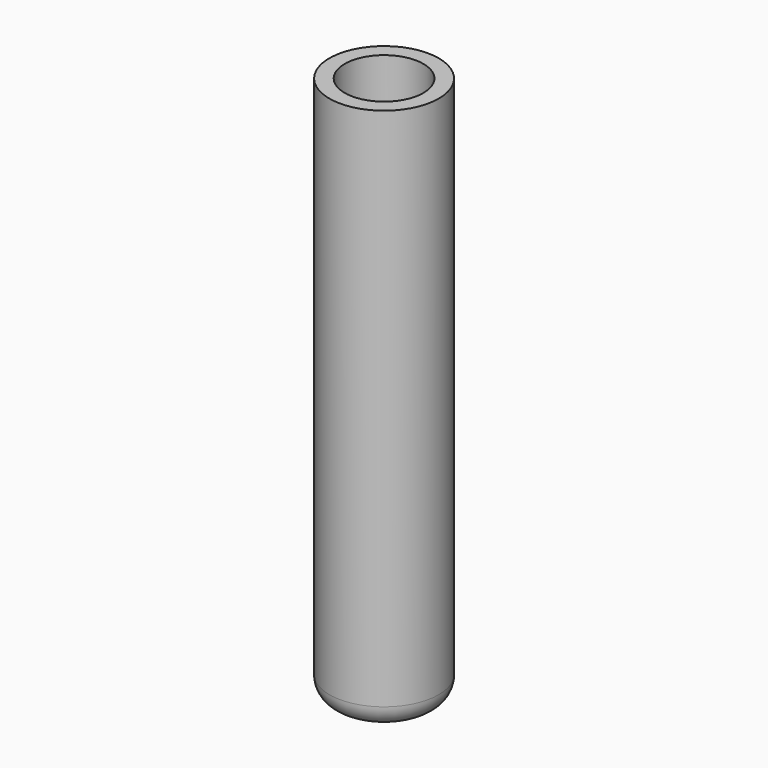
from build123d import *

# Parameters (mm, degrees)
F0_R     = 12.5
F0_R_2   = 7.5
F1_DEPTH = 100
F2_R     = 12.5
F3_DEPTH = 25
F4_R     = 5
F5_R     = 9
F5_R_2   = 7.5
F6_DEPTH = 25


with BuildPart() as f1:
    # F0 (on Top) → F1 (new body)
    with BuildSketch(Plane.XY):
        Circle(F0_R)
        Circle(F0_R_2, mode=Mode.SUBTRACT)
    extrude(amount=F1_DEPTH)

    # F2 (on face) → F3 (join)
    with BuildSketch(Plane(origin=(0, 0, 0), x_dir=(1, 0, 0), z_dir=(0, 0, -1))):
        Circle(F2_R)
    extrude(amount=F3_DEPTH)

    # F4
    f4_edges = [f1.edges().sort_by_distance(p)[0] for p in [
        (-12.5, 0, -25),
        (-7.5, 0, 0),
    ]]
    fillet(f4_edges, radius=F4_R)

    # F5 (on face) → F6 (cut)
    with BuildSketch(Plane.XY.offset(100)):
        Circle(F5_R)
        Circle(F5_R_2, mode=Mode.SUBTRACT)
    extrude(amount=-F6_DEPTH, mode=Mode.SUBTRACT)


solid = f1.part
